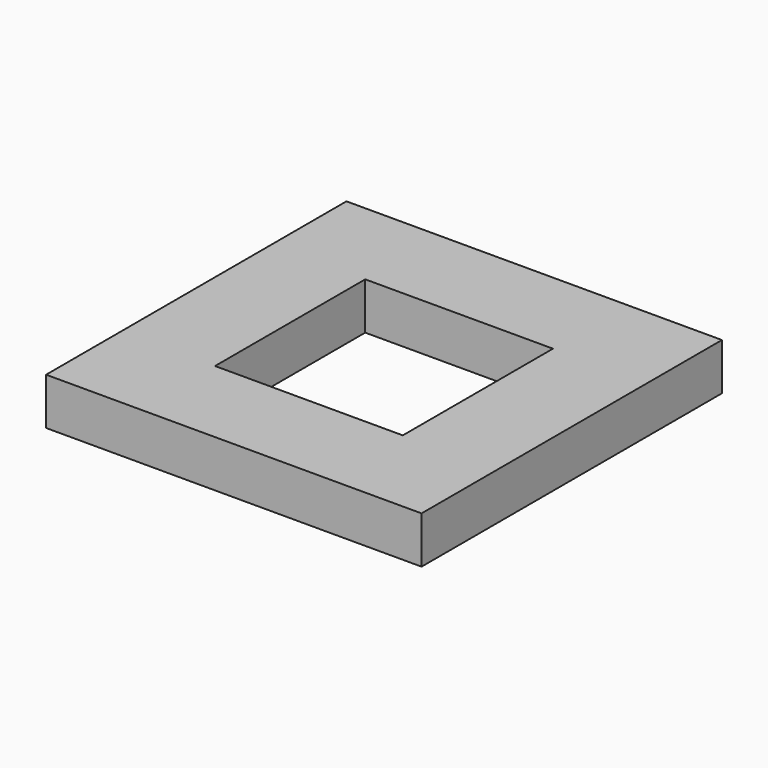
from build123d import *

# Parameters (mm, degrees)
F0_W     = 20
F0_H     = 20
F0_W_2   = 10
F0_H_2   = 10
F1_DEPTH = 2.5
F2_ANGLE = 90


with BuildPart() as f1:
    # F0 (on Front) → F1 (new body)
    with BuildSketch(Plane.XZ):
        Rectangle(F0_W, F0_H)
        Rectangle(F0_W_2, F0_H_2, mode=Mode.SUBTRACT)
    extrude(amount=F1_DEPTH)


with BuildPart() as f1_1:
    # F2: moved
    add(f1.part.rotate(Axis((0, -2.5, 10), (-1, 0, 0)), F2_ANGLE))


solid = f1_1.part
